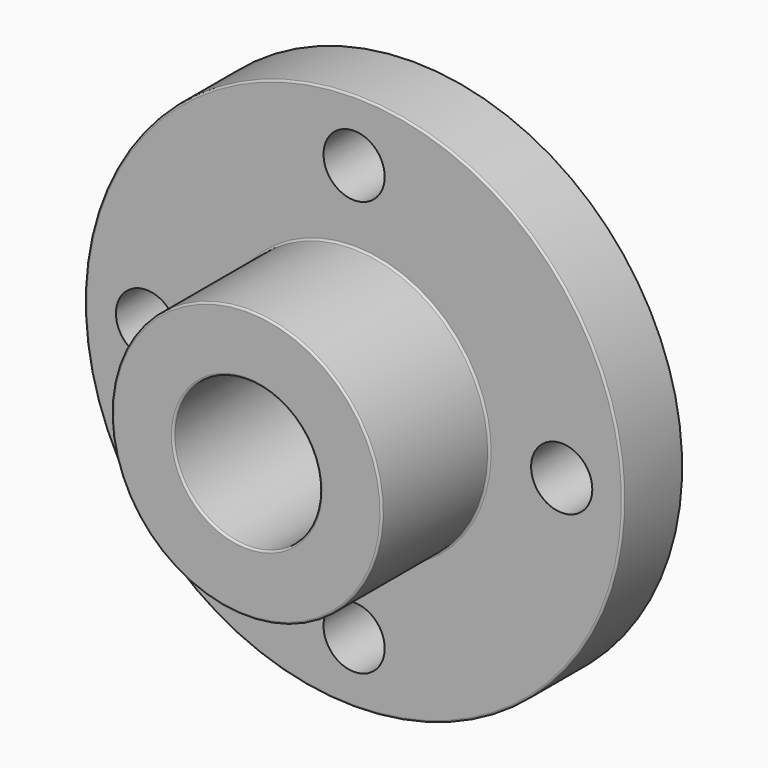
from build123d import *

# Parameters (mm, degrees)
F2_R     = 19.05
F3_DEPTH = 63.5
F4_R     = 7.9375
F5_DEPTH = 127
F6_DEPTH = 25.4
F7_R     = 0.508
F8_R     = 0.508


with BuildPart() as f1:
    # F0 (on Right) → F1 (revolve)
    with BuildSketch(Plane.YZ):
        Polygon((0, 35.052), (0, 0), (53.848, 0), (53.848, 69.85), (34.798, 69.85), (34.798, 35.052), align=None)
    revolve(axis=Axis((0, 26.924, 0), (0, -1, 0)))

    # F2 (on face) → F3 (cut, symmetric)
    with BuildSketch(Plane.XZ.offset(-34.798)):
        Circle(F2_R)
    extrude(amount=F3_DEPTH, both=True, mode=Mode.SUBTRACT)

    # F4 (on face) → F5 (cut)
    with BuildSketch(Plane.XZ.offset(-34.798)):
        with Locations((0, 53.848)):
            Circle(F4_R)
        with Locations((-53.848, 0)):
            Circle(F4_R)
        with Locations((0, -53.848)):
            Circle(F4_R)
        with Locations((53.848, 0)):
            Circle(F4_R)
    extrude(amount=-F5_DEPTH, mode=Mode.SUBTRACT)

    # F4 (on face) → F6 (cut)
    with BuildSketch(Plane.XZ.offset(-34.798)):
        with Locations((0, 53.848)):
            Circle(F4_R)
        with Locations((-53.848, 0)):
            Circle(F4_R)
        with Locations((0, -53.848)):
            Circle(F4_R)
        with Locations((53.848, 0)):
            Circle(F4_R)
    extrude(amount=-F6_DEPTH, mode=Mode.SUBTRACT)

    # F7
    f7_edges = [f1.edges().sort_by_distance(p)[0] for p in [
        (-19.05, 0, 0),
    ]]
    fillet(f7_edges, radius=F7_R)

    # F8
    f8_edges = [f1.edges().sort_by_distance(p)[0] for p in [
        (0, 0, -35.052),
        (0, 34.798, -35.052),
        (0, 34.798, -69.85),
    ]]
    fillet(f8_edges, radius=F8_R)


solid = f1.part
